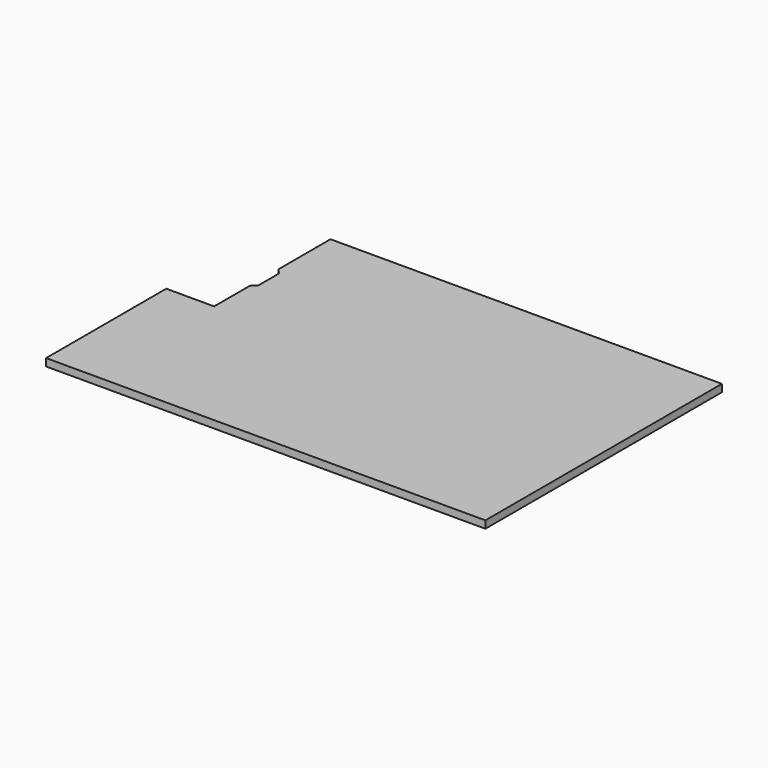
from build123d import *

# Parameters (mm, degrees)
EXTRUDE_DEPTH = 1.5748


with BuildPart() as part:
    # Sketch126 → Extrude (new body)
    with BuildSketch(Plane.XY):
        Polygon((0, 0), (93.22, 0), (93.22, 62.74), (10.16, 62.74), (10.16, 48.89), (11.18, 47.876464), (11.18, 42.366464), (10.16, 41.35), (10.16, 31.88), (0, 31.88), align=None)
    extrude(amount=EXTRUDE_DEPTH)


solid = part.part
